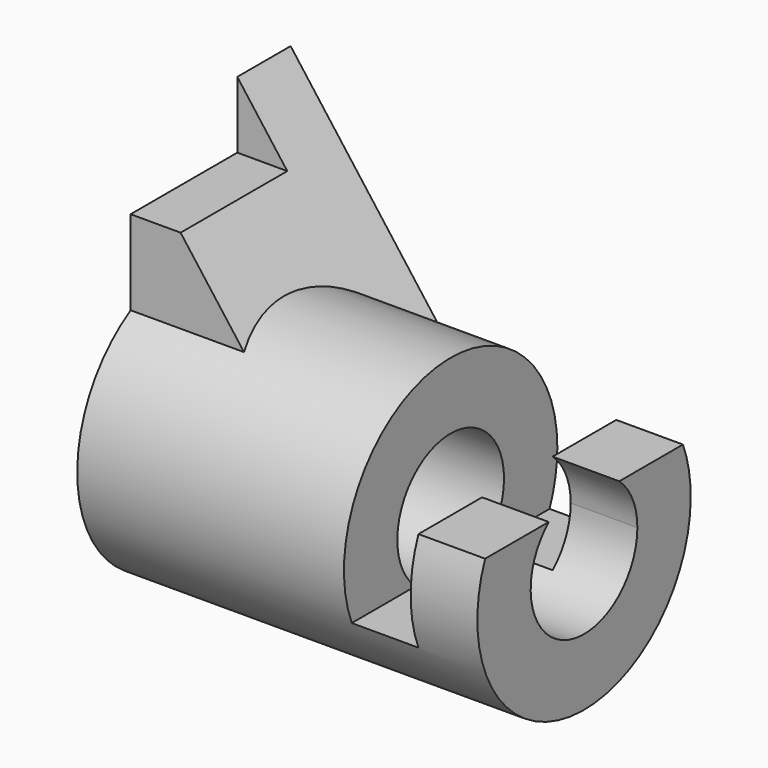
from build123d import *

# Parameters (mm, degrees)
F0_R           = 25.4
F0_R_2         = 12.7
F1_DEPTH       = 76.2
F4_DEPTH       = 25.4
F4_DEPTH_BACK  = 12.7
F5_R           = 12.7
F6_DEPTH       = 76.201
F7_W           = 25.4
F7_H           = 12.7
F8_DEPTH       = 76.201
F10_DEPTH      = 25.4
F10_DEPTH_BACK = 25.4


with BuildPart() as f1:
    # F0 (on Right) → F1 (new body)
    with BuildSketch(Plane.YZ):
        Circle(F0_R)
        Circle(F0_R_2, mode=Mode.SUBTRACT)
    extrude(amount=F1_DEPTH)

    # F3 (on Front) → F4 (join, two sides)
    with BuildSketch(Plane.XZ) as f4_sk:
        Polygon((0, 50.8), (0, 0), (38.1, 0), align=None)
    extrude(amount=-F4_DEPTH)
    extrude(f4_sk.sketch, amount=F4_DEPTH_BACK)

    # F5 (on face) → F6 (cut, through all)
    with BuildSketch(Plane.YZ.offset(76.2)):
        Circle(F5_R)
    extrude(amount=-F6_DEPTH, mode=Mode.SUBTRACT)

    # F7 (on face) → F8 (cut, through all)
    with BuildSketch(Plane.YZ):
        with Locations((0, 44.45)):
            Rectangle(F7_W, F7_H)
    extrude(amount=F8_DEPTH, mode=Mode.SUBTRACT)

    # F9 (on Front) → F10 (cut, two sides)
    with BuildSketch(Plane.XZ) as f10_sk:
        Polygon((76.2, 25.4035045986), (50.8, 25.4035045986), (50.8, -9.5214954014), (63.5, -9.5214954014), (63.5, 9.5285045986), (76.2, 9.5285045986), align=None)
    extrude(amount=-F10_DEPTH, mode=Mode.SUBTRACT)
    extrude(f10_sk.sketch, amount=F10_DEPTH_BACK, mode=Mode.SUBTRACT)


solid = f1.part
